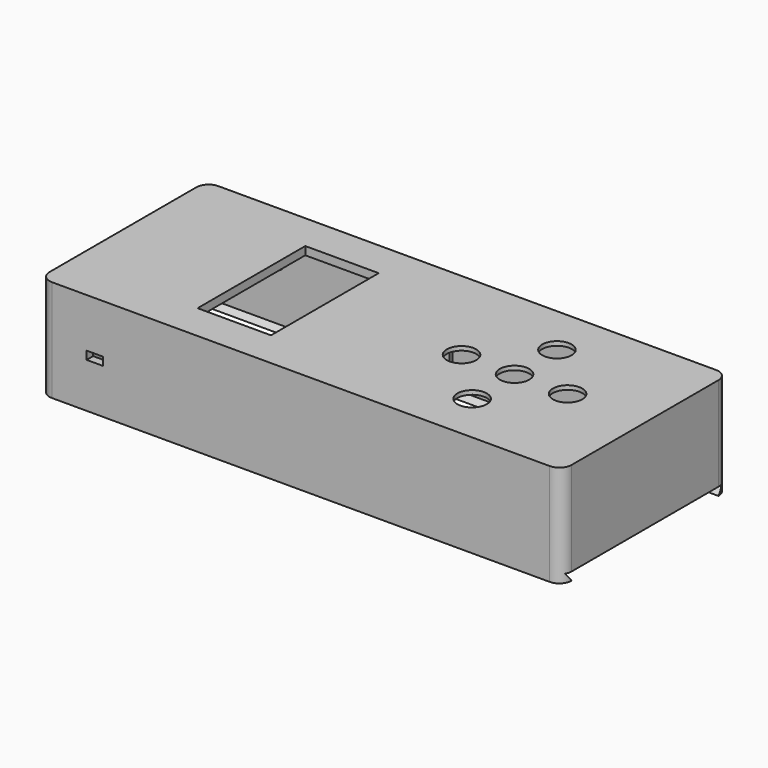
from build123d import *

# Parameters (mm, degrees)
CYLINDER001_R     = 2.5
CYLINDER001_DEPTH = 2
SKETCH021_R       = 0.5
PAD_DEPTH         = 2
CYLINDER_R        = 2.5
CYLINDER_DEPTH    = 2
SKETCH022_R       = 0.5
PAD001_DEPTH      = 2
CYLINDER002_R     = 2.5
CYLINDER002_DEPTH = 2
SKETCH023_R       = 0.5
PAD002_DEPTH      = 2
CYLINDER003_R     = 2.5
CYLINDER003_DEPTH = 2
SKETCH024_R       = 0.5
PAD003_DEPTH      = 2
BOX_W             = 21.6
BOX_H             = 35.6
BOX_DEPTH         = 1
CYLINDER008_R     = 2.5
CYLINDER008_DEPTH = 1
SKETCH036_R       = 0.5
PAD008_DEPTH      = 2
CYLINDER009_R     = 2.5
CYLINDER009_DEPTH = 1
SKETCH037_R       = 0.5
PAD009_DEPTH      = 2
CYLINDER010_R     = 2.5
CYLINDER010_DEPTH = 1
SKETCH038_R       = 0.5
PAD010_DEPTH      = 2
CYLINDER011_R     = 2.5
CYLINDER011_DEPTH = 1
SKETCH039_R       = 0.5
PAD011_DEPTH      = 2
BOX021_W          = 32
BOX021_H          = 35.5
BOX021_DEPTH      = 1
SKETCH041_W       = 18
SKETCH041_H       = 33
POCKET026_DEPTH   = 1.001
CYLINDER004_R     = 2.5
CYLINDER004_DEPTH = 7.5
SKETCH032_R       = 0.5
PAD004_DEPTH      = 2
CYLINDER005_R     = 2.5
CYLINDER005_DEPTH = 7.5
SKETCH033_R       = 0.5
PAD005_DEPTH      = 2
CYLINDER006_R     = 2.5
CYLINDER006_DEPTH = 7.5
SKETCH034_R       = 0.5
PAD006_DEPTH      = 2
CYLINDER007_R     = 2.5
CYLINDER007_DEPTH = 7.5
SKETCH035_R       = 0.5
PAD007_DEPTH      = 2
BOX020_W          = 65
BOX020_H          = 30
BOX020_DEPTH      = 1
SKETCH042_W       = 47.275932
SKETCH042_H       = 28.801395
POCKET027_DEPTH   = 1
BOX019_W          = 128
BOX019_H          = 51
BOX019_DEPTH      = 25
FILLET001_R       = 3
SKETCH019_W       = 122
SKETCH019_H       = 45
POCKET019_DEPTH   = 23
POCKET020_DEPTH   = 126
SKETCH026_W       = 7
SKETCH026_H       = 3
POCKET022_DEPTH   = 3
SKETCH027_W       = 12
SKETCH027_H       = 9
POCKET023_DEPTH   = 1.5
SKETCH029_W       = 8.8
SKETCH029_H       = 3.5
POCKET024_DEPTH   = 3
SKETCH031_R       = 3.6
SKETCH031_W       = 18
SKETCH031_H       = 33
POCKET025_DEPTH   = 2
SKETCH_W          = 12.5
SKETCH_H          = 12.5
POCKET_DEPTH      = 22
SKETCH043_W       = 4
SKETCH043_H       = 2
POCKET028_DEPTH   = 3
SKETCH044_W       = 10
SKETCH044_H       = 4
POCKET029_DEPTH   = 1
SKETCH045_W       = 60
SKETCH045_H       = 15
POCKET030_DEPTH   = 1


with BuildPart() as pad:
    # Cylinder001 → Cylinder001 (new body)
    with BuildSketch(Plane(origin=(1.85, 33.75, -2), x_dir=(1, 0, 0), z_dir=(0, 0, 1))):
        Circle(CYLINDER001_R)
    extrude(amount=CYLINDER001_DEPTH)

    # Sketch021 → Pad (new body)
    with BuildSketch(Plane(origin=(1.85, 33.75, -2), x_dir=(1, 0, 0), z_dir=(0, 0, -1))):
        Circle(SKETCH021_R)
    extrude(amount=PAD_DEPTH)


with BuildPart() as pad001:
    # Cylinder → Cylinder (new body)
    with BuildSketch(Plane(origin=(4.25, 1.85, -2), x_dir=(1, 0, 0), z_dir=(0, 0, 1))):
        Circle(CYLINDER_R)
    extrude(amount=CYLINDER_DEPTH)

    # Sketch022 → Pad001 (new body)
    with BuildSketch(Plane(origin=(4.25, 1.85, -2), x_dir=(1, 0, 0), z_dir=(0, 0, -1))):
        Circle(SKETCH022_R)
    extrude(amount=PAD001_DEPTH)


with BuildPart() as pad002:
    # Cylinder002 → Cylinder002 (new body)
    with BuildSketch(Plane(origin=(17.35, 1.85, -2), x_dir=(1, 0, 0), z_dir=(0, 0, 1))):
        Circle(CYLINDER002_R)
    extrude(amount=CYLINDER002_DEPTH)

    # Sketch023 → Pad002 (new body)
    with BuildSketch(Plane(origin=(17.35, 1.85, -2), x_dir=(1, 0, 0), z_dir=(0, 0, -1))):
        Circle(SKETCH023_R)
    extrude(amount=PAD002_DEPTH)


with BuildPart() as pad003:
    # Cylinder003 → Cylinder003 (new body)
    with BuildSketch(Plane(origin=(19.75, 33.75, -2), x_dir=(1, 0, 0), z_dir=(0, 0, 1))):
        Circle(CYLINDER003_R)
    extrude(amount=CYLINDER003_DEPTH)

    # Sketch024 → Pad003 (new body)
    with BuildSketch(Plane(origin=(19.75, 33.75, -2), x_dir=(1, 0, 0), z_dir=(0, 0, -1))):
        Circle(SKETCH024_R)
    extrude(amount=PAD003_DEPTH)


with BuildPart() as obj1:
    # Box → Box (new body)
    with BuildSketch(Plane.XY):
        with Locations((10.8, 17.8)):
            Rectangle(BOX_W, BOX_H)
    extrude(amount=BOX_DEPTH)

    # Fusion: union Pad, Pad001, Pad002, Pad003
    add(pad.part)
    add(pad001.part)
    add(pad002.part)
    add(pad003.part)


with BuildPart() as obj1_1:
    # Fusion placement: moved
    add(obj1.part.moved(Location((3, 12.4, 23.5))))


with BuildPart() as pad008:
    # Cylinder008 → Cylinder008 (new body)
    with BuildSketch(Plane(origin=(1.65, 5, -1), x_dir=(1, 0, 0), z_dir=(0, 0, 1))):
        Circle(CYLINDER008_R)
    extrude(amount=CYLINDER008_DEPTH)

    # Sketch036 → Pad008 (new body)
    with BuildSketch(Plane(origin=(1.65, 5, -1), x_dir=(1, 0, 0), z_dir=(0, 0, -1))):
        Circle(SKETCH036_R)
    extrude(amount=PAD008_DEPTH)


with BuildPart() as pad009:
    # Cylinder009 → Cylinder009 (new body)
    with BuildSketch(Plane(origin=(30.35, 5, -1), x_dir=(1, 0, 0), z_dir=(0, 0, 1))):
        Circle(CYLINDER009_R)
    extrude(amount=CYLINDER009_DEPTH)

    # Sketch037 → Pad009 (new body)
    with BuildSketch(Plane(origin=(30.35, 5, -1), x_dir=(1, 0, 0), z_dir=(0, 0, -1))):
        Circle(SKETCH037_R)
    extrude(amount=PAD009_DEPTH)


with BuildPart() as pad010:
    # Cylinder010 → Cylinder010 (new body)
    with BuildSketch(Plane(origin=(1.65, 30.5, -1), x_dir=(1, 0, 0), z_dir=(0, 0, 1))):
        Circle(CYLINDER010_R)
    extrude(amount=CYLINDER010_DEPTH)

    # Sketch038 → Pad010 (new body)
    with BuildSketch(Plane(origin=(1.65, 30.5, -1), x_dir=(1, 0, 0), z_dir=(0, 0, -1))):
        Circle(SKETCH038_R)
    extrude(amount=PAD010_DEPTH)


with BuildPart() as pad011:
    # Cylinder011 → Cylinder011 (new body)
    with BuildSketch(Plane(origin=(30.35, 30.5, -1), x_dir=(1, 0, 0), z_dir=(0, 0, 1))):
        Circle(CYLINDER011_R)
    extrude(amount=CYLINDER011_DEPTH)

    # Sketch039 → Pad011 (new body)
    with BuildSketch(Plane(origin=(30.35, 30.5, -1), x_dir=(1, 0, 0), z_dir=(0, 0, -1))):
        Circle(SKETCH039_R)
    extrude(amount=PAD011_DEPTH)


with BuildPart() as pocketscreen:
    # Box021 → Box021 (new body)
    with BuildSketch(Plane.XY):
        with Locations((16, 17.75)):
            Rectangle(BOX021_W, BOX021_H)
    extrude(amount=BOX021_DEPTH)

    # Fusion002: union Pad008, Pad009, Pad010, Pad011
    add(pad008.part)
    add(pad009.part)
    add(pad010.part)
    add(pad011.part)


with BuildPart() as pocketscreen_1:
    # Fusion002 placement: moved
    add(pocketscreen.part.moved(Location((26.5, 7.75, 23.5))))

    # Sketch041 → Pocket026 (cut, through all)
    with BuildSketch(Plane(origin=(26.5, 7.75, 23.5), x_dir=(1, 0, 0), z_dir=(0, 0, -1))):
        with Locations((14, -17.75)):
            Rectangle(SKETCH041_W, SKETCH041_H)
    extrude(amount=-POCKET026_DEPTH, mode=Mode.SUBTRACT)


with BuildPart() as pad004:
    # Cylinder004 → Cylinder004 (new body)
    with BuildSketch(Plane(origin=(3.5, 3.5, -7.5), x_dir=(1, 0, 0), z_dir=(0, 0, 1))):
        Circle(CYLINDER004_R)
    extrude(amount=CYLINDER004_DEPTH)

    # Sketch032 → Pad004 (new body)
    with BuildSketch(Plane(origin=(3.5, 3.5, -7.5), x_dir=(1, 0, 0), z_dir=(0, 0, -1))):
        Circle(SKETCH032_R)
    extrude(amount=PAD004_DEPTH)


with BuildPart() as pad005:
    # Cylinder005 → Cylinder005 (new body)
    with BuildSketch(Plane(origin=(3.5, 26.5, -7.5), x_dir=(1, 0, 0), z_dir=(0, 0, 1))):
        Circle(CYLINDER005_R)
    extrude(amount=CYLINDER005_DEPTH)

    # Sketch033 → Pad005 (new body)
    with BuildSketch(Plane(origin=(3.5, 26.5, -7.5), x_dir=(1, 0, 0), z_dir=(0, 0, -1))):
        Circle(SKETCH033_R)
    extrude(amount=PAD005_DEPTH)


with BuildPart() as pad006:
    # Cylinder006 → Cylinder006 (new body)
    with BuildSketch(Plane(origin=(61.5, 3.5, -7.5), x_dir=(1, 0, 0), z_dir=(0, 0, 1))):
        Circle(CYLINDER006_R)
    extrude(amount=CYLINDER006_DEPTH)

    # Sketch034 → Pad006 (new body)
    with BuildSketch(Plane(origin=(61.5, 3.5, -7.5), x_dir=(1, 0, 0), z_dir=(0, 0, -1))):
        Circle(SKETCH034_R)
    extrude(amount=PAD006_DEPTH)


with BuildPart() as pad007:
    # Cylinder007 → Cylinder007 (new body)
    with BuildSketch(Plane(origin=(61.5, 26.5, -7.5), x_dir=(1, 0, 0), z_dir=(0, 0, 1))):
        Circle(CYLINDER007_R)
    extrude(amount=CYLINDER007_DEPTH)

    # Sketch035 → Pad007 (new body)
    with BuildSketch(Plane(origin=(61.5, 26.5, -7.5), x_dir=(1, 0, 0), z_dir=(0, 0, -1))):
        Circle(SKETCH035_R)
    extrude(amount=PAD007_DEPTH)


with BuildPart() as obj2:
    # Box020 → Box020 (new body)
    with BuildSketch(Plane.XY):
        with Locations((32.5, 15)):
            Rectangle(BOX020_W, BOX020_H)
    extrude(amount=BOX020_DEPTH)

    # Fusion001: union Pad004, Pad005, Pad006, Pad007
    add(pad004.part)
    add(pad005.part)
    add(pad006.part)
    add(pad007.part)


with BuildPart() as obj2_1:
    # Fusion001 placement: moved
    add(obj2.part.moved(Location((59, 18, 23.5))))

    # Sketch042 → Pocket027 (cut)
    with BuildSketch(Plane(origin=(59, 18, 23.5), x_dir=(1, 0, 0), z_dir=(0, 0, -1))):
        with Locations((33.634731, -13.400697)):
            Rectangle(SKETCH042_W, SKETCH042_H)
    extrude(amount=-POCKET027_DEPTH, mode=Mode.SUBTRACT)


with BuildPart() as base:
    # Box019 → Box019 (new body)
    with BuildSketch(Plane.XY):
        with Locations((64, 25.5)):
            Rectangle(BOX019_W, BOX019_H)
    extrude(amount=BOX019_DEPTH)


with BuildPart() as fillet001:
    # Fillet001 base: copy of base
    add(base.part)

    # Fillet001
    fillet001_edges = [fillet001.edges().sort_by_distance(p)[0] for p in [
        (0, 0, 12.5),
        (0, 51, 12.5),
        (128, 0, 12.5),
        (128, 51, 12.5),
    ]]
    fillet(fillet001_edges, radius=FILLET001_R)


with BuildPart() as pocket030:
    # Pocket019 base: copy of base
    add(base.part)

    # Sketch019 → Pocket019 (cut)
    with BuildSketch(Plane(origin=(0, 0, 0), x_dir=(1, 0, 0), z_dir=(0, 0, -1))):
        with Locations((64, -25.5)):
            Rectangle(SKETCH019_W, SKETCH019_H)
    extrude(amount=-POCKET019_DEPTH, mode=Mode.SUBTRACT)

    # Sketch020 → Pocket020 (cut)
    with BuildSketch(Plane.YZ.offset(128)):
        Polygon((48, 0), (49.5, 2), (1.5, 2), (3, 0), align=None)
    extrude(amount=-POCKET020_DEPTH, mode=Mode.SUBTRACT)

    # Common: intersect Fillet001
    add(fillet001.part, mode=Mode.INTERSECT)

    # Sketch026 → Pocket022 (cut)
    with BuildSketch(Plane(origin=(0, 51, 0), x_dir=(-1, 0, 0), z_dir=(0, 1, 0))):
        with Locations((-13.8, 18.5)):
            Rectangle(SKETCH026_W, SKETCH026_H)
        with Locations((-100.5, 13.5)):
            Rectangle(SKETCH026_W, SKETCH026_H)
    extrude(amount=-POCKET022_DEPTH, mode=Mode.SUBTRACT)

    # Sketch027 → Pocket023 (cut)
    with BuildSketch(Plane(origin=(0, 51, 0), x_dir=(-1, 0, 0), z_dir=(0, 1, 0))):
        with Locations((-13.8, 18.5)):
            Rectangle(SKETCH027_W, SKETCH027_H)
        with Locations((-100.5, 13.5)):
            Rectangle(SKETCH027_W, SKETCH027_H)
    extrude(amount=-POCKET023_DEPTH, mode=Mode.SUBTRACT)

    # Sketch029 → Pocket024 (cut)
    with BuildSketch(Plane(origin=(0, 0, 2), x_dir=(1, 0, 0), z_dir=(0, 0, -1))):
        with Locations((13.7, 13.5)):
            Rectangle(SKETCH029_W, SKETCH029_H)
    extrude(amount=-POCKET024_DEPTH, mode=Mode.SUBTRACT)

    # Sketch031 → Pocket025 (cut)
    with BuildSketch(Plane.XY.offset(25)):
        with Locations((96, 38.5)):
            Circle(SKETCH031_R)
        with Locations((83, 25.5)):
            Circle(SKETCH031_R)
        with Locations((96, 25.5)):
            Circle(SKETCH031_R)
        with Locations((109, 25.5)):
            Circle(SKETCH031_R)
        with Locations((96, 12.5)):
            Circle(SKETCH031_R)
        with Locations((40.5, 25.5)):
            Rectangle(SKETCH031_W, SKETCH031_H)
    extrude(amount=-POCKET025_DEPTH, mode=Mode.SUBTRACT)

    # Sketch → Pocket (cut)
    with BuildSketch(Plane(origin=(0, 0, 2), x_dir=(1, 0, 0), z_dir=(0, 0, -1))):
        with Locations((82.8875, -25.5)):
            Rectangle(SKETCH_W, SKETCH_H)
        with Locations((96, -12.5)):
            Rectangle(SKETCH_W, SKETCH_H)
        with Locations((96, -25.5)):
            Rectangle(SKETCH_W, SKETCH_H)
        with Locations((108.998, -25.5)):
            Rectangle(SKETCH_W, SKETCH_H)
        with Locations((96, -38.5)):
            Rectangle(SKETCH_W, SKETCH_H)
    extrude(amount=-POCKET_DEPTH, mode=Mode.SUBTRACT)

    # Sketch043 → Pocket028 (cut)
    with BuildSketch(Plane(origin=(0, 3, 0), x_dir=(-1, 0, 0), z_dir=(0, 1, 0))):
        with Locations((-13.5, 12)):
            Rectangle(SKETCH043_W, SKETCH043_H)
    extrude(amount=-POCKET028_DEPTH, mode=Mode.SUBTRACT)

    # Sketch044 → Pocket029 (cut)
    with BuildSketch(Plane(origin=(0, 3, 0), x_dir=(-1, 0, 0), z_dir=(0, 1, 0))):
        with Locations((-13.5, 12)):
            Rectangle(SKETCH044_W, SKETCH044_H)
    extrude(amount=-POCKET029_DEPTH, mode=Mode.SUBTRACT)

    # Sketch045 → Pocket030 (cut)
    with BuildSketch(Plane.XZ.offset(-48)):
        with Locations((92, 13.5)):
            Rectangle(SKETCH045_W, SKETCH045_H)
    extrude(amount=-POCKET030_DEPTH, mode=Mode.SUBTRACT)


solid = Compound([obj1_1.part, pocketscreen_1.part, obj2_1.part, pocket030.part])
